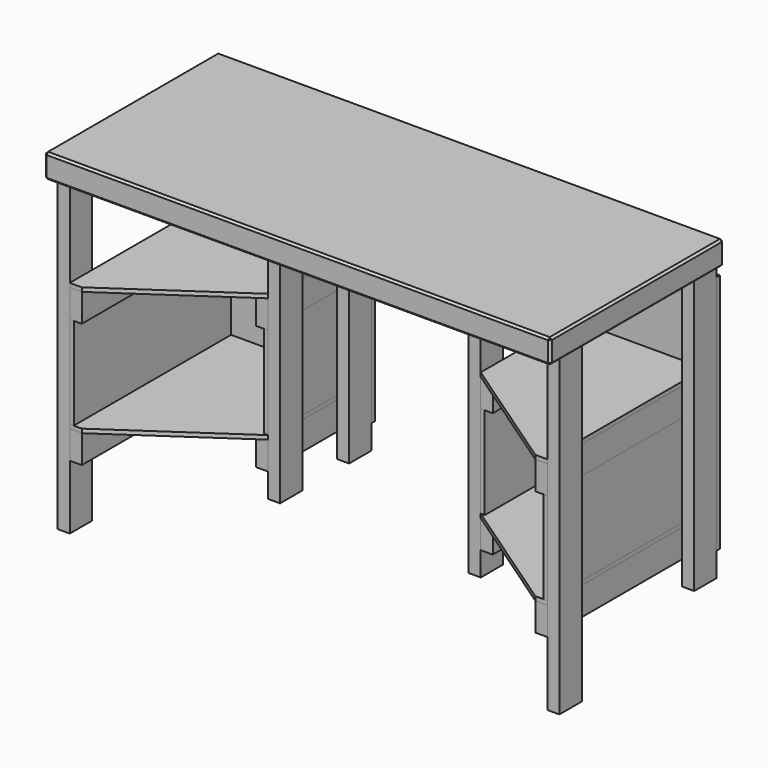
from build123d import *

# Parameters (mm, degrees)
F0_W      = 1600.2
F0_H      = 685.8
F1_DEPTH  = 76.2
F2_SIZE   = 6.35
F3_W      = 38.1
F3_H      = 88.9
F4_DEPTH  = 990.6
F4_FACE_W = 38.1
F4_FACE_H = 88.9
F5_DEPTH  = 127
F6_W      = 622.3
F6_H      = 88.9
F7_DEPTH  = 38.1
F8_W      = 361.95
F8_H      = 88.9
F9_DEPTH  = 38.1
F10_W     = 361.95
F10_H     = 88.9
F11_DEPTH = 38.1
F12_W     = 622.3
F12_H     = 88.9
F13_DEPTH = 38.1
F15_DEPTH = 12.7
F17_DEPTH = 12.7
F19_DEPTH = 12.7
F21_DEPTH = 12.7
F22_W     = 495.3
F22_H     = 762
F23_DEPTH = 12.7
F24_W     = 495.3
F24_H     = 762
F25_DEPTH = 12.7
F26_W     = 622.3
F26_H     = 292.1
F27_DEPTH = 12.7
F28_W     = 361.95
F28_H     = 292.1
F29_DEPTH = 12.7
F30_W     = 361.95
F30_H     = 292.1
F31_DEPTH = 12.7
F32_W     = 622.3
F32_H     = 292.1
F33_DEPTH = 12.7


with BuildPart() as f1:
    # F0 (on Top) → F1 (new body)
    with BuildSketch(Plane.XY):
        with Locations((361.94872, -21.608793)):
            Rectangle(F0_W, F0_H)
    extrude(amount=F1_DEPTH)

    # F2
    f2_edges = [f1.edges().sort_by_distance(p)[0] for p in [
        (-438.15128, -21.608793, 76.2),
        (361.94872, -364.508793, 76.2),
        (361.94872, -364.508793, 0),
        (-438.15128, -364.508793, 38.1),
        (1162.04872, -364.508793, 38.1),
        (1162.04872, -21.608793, 76.2),
        (1162.04872, -21.608793, 0),
        (1162.04872, 321.291207, 38.1),
        (361.94872, 321.291207, 76.2),
        (361.94872, 321.291207, 0),
        (-438.15128, 321.291207, 38.1),
        (-438.15128, -21.608793, 0),
    ]]
    chamfer(f2_edges, length=F2_SIZE)


with BuildPart() as f4:
    # F3 (on face) → F4 (new body)
    with BuildSketch(Plane(origin=(0, 0, 0), x_dir=(1, 0, 0), z_dir=(0, 0, -1))):
        with Locations((-412.75128, -257.791207)):
            Rectangle(F3_W, F3_H)
        with Locations((-412.75128, 275.608793)):
            Rectangle(F3_W, F3_H)
        with Locations((44.44872, 15.258793)):
            Rectangle(F3_W, F3_H)
        with Locations((44.44872, -257.791207)):
            Rectangle(F3_W, F3_H)
        with Locations((679.44872, -257.791207)):
            Rectangle(F3_W, F3_H)
        with Locations((679.44872, 15.258793)):
            Rectangle(F3_W, F3_H)
        with Locations((1136.64872, 275.608793)):
            Rectangle(F3_W, F3_H)
        with Locations((1136.64872, -257.791207)):
            Rectangle(F3_W, F3_H)
    extrude(amount=F4_DEPTH)

    # F4_face (on face) → F5 (cut)
    with BuildSketch(Plane(origin=(-412.75128, 257.791207, -990.6), x_dir=(1, 0, 0), z_dir=(0, 0, -1))):
        Rectangle(F4_FACE_W, F4_FACE_H)
        with Locations((457.2, 0)):
            Rectangle(F4_FACE_W, F4_FACE_H)
        with Locations((457.2, 273.05)):
            Rectangle(F4_FACE_W, F4_FACE_H)
        with Locations((1092.2, 273.05)):
            Rectangle(F4_FACE_W, F4_FACE_H)
        with Locations((1092.2, 0)):
            Rectangle(F4_FACE_W, F4_FACE_H)
        with Locations((1549.4, 0)):
            Rectangle(F4_FACE_W, F4_FACE_H)
    extrude(amount=-F5_DEPTH, mode=Mode.SUBTRACT)


with BuildPart() as f7:
    # F6 (on face) → F7 (new body)
    with BuildSketch(Plane.YZ.offset(-393.70128)):
        with Locations((-8.908793, -349.25)):
            Rectangle(F6_W, F6_H)
        with Locations((-8.908793, -742.95)):
            Rectangle(F6_W, F6_H)
    extrude(amount=F7_DEPTH)


with BuildPart() as f9:
    # F8 (on face) → F9 (new body)
    with BuildSketch(Plane(origin=(25.39872, 0, 0), x_dir=(0, -1, 0), z_dir=(-1, 0, 0))):
        with Locations((-121.266207, -349.25)):
            Rectangle(F8_W, F8_H)
        with Locations((-121.266207, -742.95)):
            Rectangle(F8_W, F8_H)
    extrude(amount=F9_DEPTH)


with BuildPart() as f11:
    # F10 (on face) → F11 (new body)
    with BuildSketch(Plane.YZ.offset(698.49872)):
        with Locations((121.266207, -349.25)):
            Rectangle(F10_W, F10_H)
        with Locations((121.266207, -742.95)):
            Rectangle(F10_W, F10_H)
    extrude(amount=F11_DEPTH)


with BuildPart() as f13:
    # F12 (on face) → F13 (new body)
    with BuildSketch(Plane(origin=(1117.59872, 0, 0), x_dir=(0, -1, 0), z_dir=(-1, 0, 0))):
        with Locations((8.908793, -742.95)):
            Rectangle(F12_W, F12_H)
        with Locations((8.908793, -349.25)):
            Rectangle(F12_W, F12_H)
    extrude(amount=F13_DEPTH)


with BuildPart() as f15:
    # F14 (on face) → F15 (new body)
    with BuildSketch(Plane.XY.offset(-304.8)):
        Polygon((25.39872, -59.708793), (25.39872, 302.241207), (-393.70128, 302.241207), (-393.70128, -320.058793), (-355.60128, -320.058793), align=None)
    extrude(amount=F15_DEPTH)


with BuildPart() as f17:
    # F16 (on face) → F17 (new body)
    with BuildSketch(Plane.XY.offset(-698.5)):
        Polygon((25.39872, -59.708793), (25.39872, 302.241207), (-393.70128, 302.241207), (-393.70128, -320.058793), (-355.60128, -320.058793), align=None)
    extrude(amount=F17_DEPTH)


with BuildPart() as f19:
    # F18 (on face) → F19 (new body)
    with BuildSketch(Plane.XY.offset(-304.8)):
        Polygon((1117.59872, 302.241207), (698.49872, 302.241207), (698.49872, -59.708793), (1079.49872, -320.058793), (1117.59872, -320.058793), align=None)
    extrude(amount=F19_DEPTH)


with BuildPart() as f21:
    # F20 (on face) → F21 (new body)
    with BuildSketch(Plane.XY.offset(-698.5)):
        Polygon((1117.59872, 302.241207), (698.49872, 302.241207), (698.49872, -59.708793), (1079.49872, -320.058793), (1117.59872, -320.058793), align=None)
    extrude(amount=F21_DEPTH)


with BuildPart() as f23:
    # F22 (on face) → F23 (new body)
    with BuildSketch(Plane(origin=(0, 302.241207, 0), x_dir=(-1, 0, 0), z_dir=(0, 1, 0))):
        with Locations((-908.04872, -406.4)):
            Rectangle(F22_W, F22_H)
    extrude(amount=F23_DEPTH)


with BuildPart() as f25:
    # F24 (on face) → F25 (new body)
    with BuildSketch(Plane(origin=(0, 302.241207, 0), x_dir=(-1, 0, 0), z_dir=(0, 1, 0))):
        with Locations((184.15128, -406.4)):
            Rectangle(F24_W, F24_H)
    extrude(amount=F25_DEPTH)


with BuildPart() as f27:
    # F26 (on face) → F27 (new body)
    with BuildSketch(Plane.YZ.offset(-393.70128)):
        with Locations((-8.908793, -539.75)):
            Rectangle(F26_W, F26_H)
    extrude(amount=F27_DEPTH)


with BuildPart() as f29:
    # F28 (on face) → F29 (new body)
    with BuildSketch(Plane(origin=(25.39872, 0, 0), x_dir=(0, -1, 0), z_dir=(-1, 0, 0))):
        with Locations((-121.266207, -539.75)):
            Rectangle(F28_W, F28_H)
    extrude(amount=F29_DEPTH)


with BuildPart() as f31:
    # F30 (on face) → F31 (new body)
    with BuildSketch(Plane.YZ.offset(698.49872)):
        with Locations((121.266207, -539.75)):
            Rectangle(F30_W, F30_H)
    extrude(amount=F31_DEPTH)


with BuildPart() as f33:
    # F32 (on face) → F33 (new body)
    with BuildSketch(Plane(origin=(1117.59872, 0, 0), x_dir=(0, -1, 0), z_dir=(-1, 0, 0))):
        with Locations((8.908793, -539.75)):
            Rectangle(F32_W, F32_H)
    extrude(amount=F33_DEPTH)


solid = Compound([f1.part, f4.part, f7.part, f9.part, f11.part, f13.part, f15.part, f17.part, f19.part, f21.part, f23.part, f25.part, f27.part, f29.part, f31.part, f33.part])
